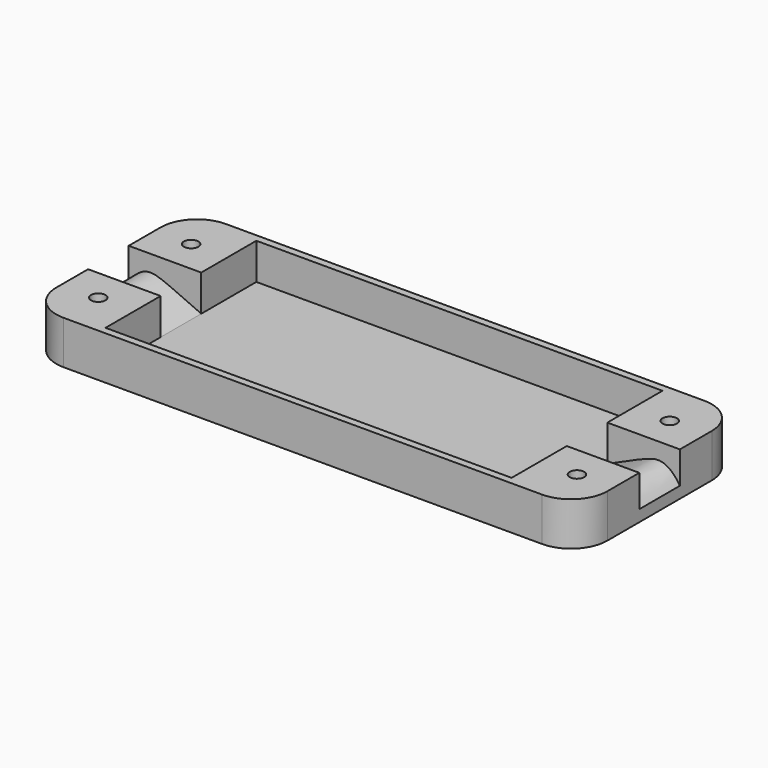
from build123d import *

# Parameters (mm, degrees)
PAD_DEPTH      = 7
CYLINDER_R     = 1
CYLINDER_DEPTH = 10
ARRAY_X_COUNT  = 2
ARRAY_X_PITCH  = 66
ARRAY_Y_COUNT  = 2
ARRAY_Y_PITCH  = 16
BOX_W          = 56
BOX_H          = 26
BOX_DEPTH      = 5
BOX001_W       = 76
BOX001_H       = 28
BOX001_DEPTH   = 6
FILLET_R       = 5


with BuildPart() as wire_hole_body:
    # Sketch → Pad (new body)
    with BuildSketch(Plane.XZ):
        with BuildLine():
            Line((0, 5), (-10, 5))
            Line((-10, 5), (-10, 0.583155))
            add(Edge.make_bspline(
                [(-10, 0.583155), (-9.116008, 1.942432), (-7.251605, 3.386368), (-4.874426, 2.178075), (0, 0)],
                knots=[0, 0, 0, 0, 0.5, 1, 1, 1, 1], degree=3))
            Line((0, 0), (0, 5))
        make_face()
    extrude(amount=PAD_DEPTH)


with BuildPart() as part_mirroring:
    # Part__Mirroring: instance of wire hole body
    add(wire_hole_body.part.mirror(Plane(origin=(28, 0, 0), x_dir=(0, -1, 0), z_dir=(1, 0, 0))))


with BuildPart() as wire_hole_fusion:
    # Fusion001 base: copy of wire hole body
    add(wire_hole_body.part)

    # Fusion001: union Part__Mirroring
    add(part_mirroring.part)


with BuildPart() as wire_hole_fusion_1:
    # Fusion001 placement: moved
    add(wire_hole_fusion.part.moved(Location((0, 16.5, 0))))


with BuildPart() as screw_hole_array:
    # Cylinder → Cylinder (new body)
    with BuildSketch(Plane.XY):
        Circle(CYLINDER_R)
    extrude(amount=CYLINDER_DEPTH)

    # Array X: screw hole array ×2


with BuildPart() as screw_hole_array_1:
    add(screw_hole_array.part)
    with Locations(*[(i * ARRAY_X_PITCH, 0, 0) for i in range(1, ARRAY_X_COUNT)]):
        add(screw_hole_array.part)

    # Array Y: screw hole array ×2


with BuildPart() as screw_hole_array_2:
    add(screw_hole_array_1.part)
    with Locations(*[(0, i * ARRAY_Y_PITCH, 0) for i in range(1, ARRAY_Y_COUNT)]):
        add(screw_hole_array_1.part)


with BuildPart() as screw_hole_array_3:
    # Array placement: moved
    add(screw_hole_array_2.part.moved(Location((-5, 5, 0))))


with BuildPart() as extraction_fusion:
    # Box → Box (new body)
    with BuildSketch(Plane.XY):
        with Locations((28, 13)):
            Rectangle(BOX_W, BOX_H)
    extrude(amount=BOX_DEPTH)

    # Fusion: union wire hole fusion, screw hole array
    add(wire_hole_fusion_1.part)
    add(screw_hole_array_3.part)


with BuildPart() as box_cut:
    # Box001 → Box001 (new body)
    with BuildSketch(Plane(origin=(-10, -1, -1), x_dir=(1, 0, 0), z_dir=(0, 0, 1))):
        with Locations((38, 14)):
            Rectangle(BOX001_W, BOX001_H)
    extrude(amount=BOX001_DEPTH)

    # Fillet
    fillet_edges = [box_cut.edges().sort_by_distance(p)[0] for p in [
        (-10, -1, 2),
        (-10, 27, 2),
        (66, -1, 2),
        (66, 27, 2),
    ]]
    fillet(fillet_edges, radius=FILLET_R)

    # Cut: cut extraction fusion
    add(extraction_fusion.part, mode=Mode.SUBTRACT)


solid = box_cut.part
